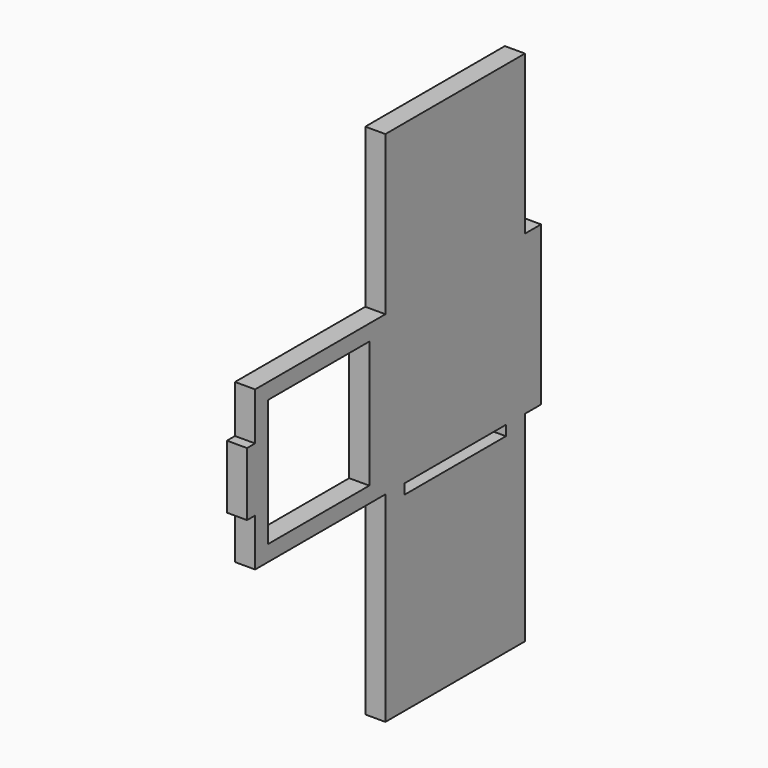
from build123d import *

# Parameters (mm, degrees)
F0_W     = 40
F0_H     = 3.175
F0_W_2   = 6.35
F0_H_2   = 50
F0_H_3   = 40
F0_W_3   = 3.175
F0_H_4   = 20
F1_DEPTH = 6.35


with BuildPart() as f1:
    # F0 (on Right) → F1 (new body)
    with BuildSketch(Plane.YZ):
        Polygon((27.5, 0), (-27.5, 0), (-27.5, -50), (-27.5, -100), (-27.5, -163.175), (27.5, -163.175), (27.5, -100), (27.5, -50), align=None)
        with Locations((0, -101.5875)):
            Rectangle(F0_W, F0_H, mode=Mode.SUBTRACT)
        with Locations((30.675, -75)):
            Rectangle(F0_W_2, F0_H_2)
        Polygon((-27.5, -100), (-27.5, -50), (-78.85, -50), (-78.85, -65), (-78.85, -85), (-78.85, -100), align=None)
        with Locations((-53.85, -75)):
            Rectangle(F0_W, F0_H_3, mode=Mode.SUBTRACT)
        with Locations((-80.4375, -75)):
            Rectangle(F0_W_3, F0_H_4)
    extrude(amount=F1_DEPTH)


solid = f1.part
